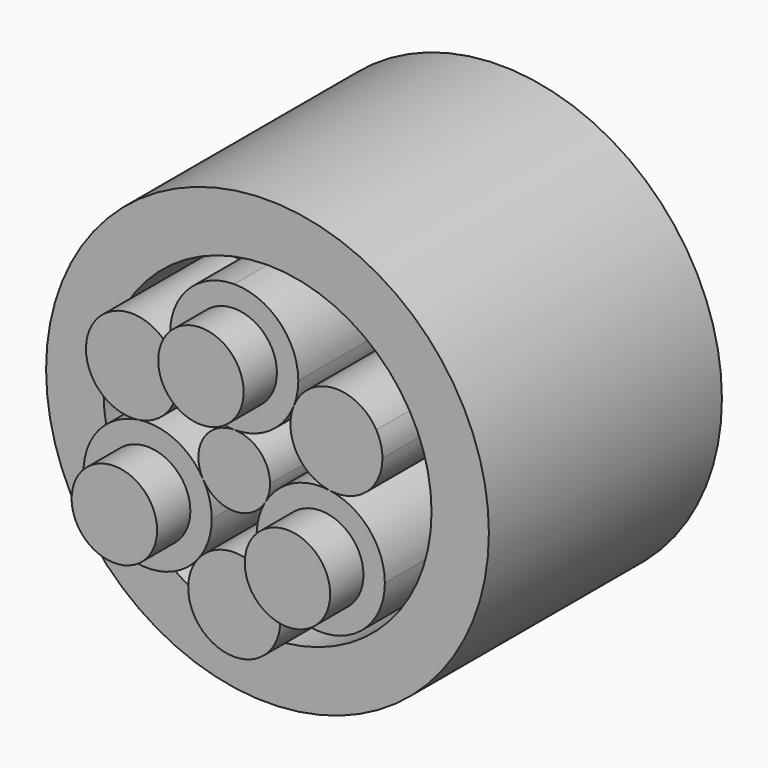
from build123d import *

# Parameters (mm, degrees)
F0_R           = 10.26686
F1_DEPTH       = 40
F2_DEPTH       = 30
F3_DEPTH       = 30
F4_DEPTH       = 40
F5_DEPTH       = 30
F6_DEPTH       = 40
F7_DEPTH       = 30
F8_DEPTH       = 30
F9_DEPTH       = 30
F10_DEPTH      = 30
F0_R_2         = 53.205664
F11_DEPTH      = 20
F11_DEPTH_BACK = 50


with BuildPart() as f1:
    # F0 (on Front) → F1 (new body)
    with BuildSketch(Plane.XZ):
        with Locations((0, 24.017028)):
            Circle(F0_R)
    extrude(amount=F1_DEPTH)

    # F0 (on Front) → F2 (join)
    with BuildSketch(Plane.XZ):
        with BuildLine():
            ThreePointArc((-14.303915, 18.292196), (-8.636353, 11.258146), (0, 8.610027))
            ThreePointArc((0, 8.610027), (8.636353, 11.258146), (14.303915, 18.292196))
            ThreePointArc((14.303915, 18.292196), (15.128716, 21.101959), (15.407001, 24.017028))
            ThreePointArc((15.407001, 24.017028), (10.894395, 34.911423), (0, 39.424029))
            ThreePointArc((0, 39.424029), (-12.758883, 32.653381), (-14.303915, 18.292196))
        make_face()
        with Locations((0, 24.017028)):
            Circle(F0_R, mode=Mode.SUBTRACT)
    extrude(amount=F2_DEPTH)


with BuildPart() as f3:
    # F0 (on Front) → F3 (new body)
    with BuildSketch(Plane.XZ):
        with BuildLine():
            ThreePointArc((-5.392356, -12.008514), (-5.917336, -8.020889), (-7.456503, -4.305013))
            ThreePointArc((-7.456503, -4.305013), (-14.068017, 1.850228), (-22.993464, 3.241456))
            ThreePointArc((-22.993464, 3.241456), (-34.658099, -5.277174), (-34.142211, -19.712014))
            ThreePointArc((-34.142211, -19.712014), (-21.899216, -27.376207), (-8.689549, -21.533652))
            ThreePointArc((-8.689549, -21.533652), (-6.23997, -17.048349), (-5.392356, -12.008514))
        make_face()
        with Locations((-20.799357, -12.008514)):
            Circle(F0_R, mode=Mode.SUBTRACT)
    extrude(amount=F3_DEPTH)

    # F0 (on Front) → F4 (join)
    with BuildSketch(Plane.XZ):
        with Locations((-20.799357, -12.008514)):
            Circle(F0_R)
    extrude(amount=F4_DEPTH)


with BuildPart() as f5:
    # F0 (on Front) → F5 (new body)
    with BuildSketch(Plane.XZ):
        with BuildLine():
            ThreePointArc((22.993463, 3.241456), (14.068016, 1.850228), (7.456502, -4.305013))
            ThreePointArc((7.456502, -4.305013), (5.431664, -13.108374), (8.689549, -21.533651))
            ThreePointArc((8.689549, -21.533651), (21.899216, -27.376207), (34.142211, -19.712015))
            ThreePointArc((34.142211, -19.712015), (35.681377, -15.996139), (36.206358, -12.008514))
            ThreePointArc((36.206358, -12.008514), (32.443675, -1.919632), (22.993463, 3.241456))
        make_face()
        with Locations((20.799357, -12.008514)):
            Circle(F0_R, mode=Mode.SUBTRACT)
    extrude(amount=F5_DEPTH)

    # F0 (on Front) → F6 (join)
    with BuildSketch(Plane.XZ):
        with Locations((20.799357, -12.008514)):
            Circle(F0_R)
    extrude(amount=F6_DEPTH)


with BuildPart() as f7:
    # F0 (on Front) → F7 (new body)
    with BuildSketch(Plane.XZ):
        with BuildLine():
            ThreePointArc((-13.512381, 14.184268), (-13.712068, 16.276014), (-14.303915, 18.292196))
            ThreePointArc((-14.303915, 18.292196), (-23.778655, 25.211555), (-34.142211, 19.712014))
            ThreePointArc((-34.142211, 19.712014), (-33.723175, 7.987142), (-22.993464, 3.241456))
            ThreePointArc((-22.993464, 3.241456), (-16.212342, 6.944861), (-13.512381, 14.184268))
        make_face()
    extrude(amount=F7_DEPTH)


with BuildPart() as f8:
    # F0 (on Front) → F8 (new body)
    with BuildSketch(Plane.XZ):
        with BuildLine():
            ThreePointArc((34.142211, 19.712015), (23.778655, 25.211555), (14.303915, 18.292196))
            ThreePointArc((14.303915, 18.292196), (14.993536, 8.656522), (22.993463, 3.241456))
            ThreePointArc((22.993463, 3.241456), (31.807281, 5.828737), (35.623366, 14.184268))
            ThreePointArc((35.623366, 14.184268), (35.246659, 17.04564), (34.142211, 19.712015))
        make_face()
    extrude(amount=F8_DEPTH)


with BuildPart() as f9:
    # F0 (on Front) → F9 (new body)
    with BuildSketch(Plane.XZ):
        with BuildLine():
            ThreePointArc((11.055493, -28.368537), (10.447276, -24.752138), (8.689549, -21.533651))
            ThreePointArc((8.689549, -21.533651), (0, -17.313044), (-8.689549, -21.533652))
            ThreePointArc((-8.689549, -21.533652), (-9.94452, -33.198697), (0, -39.424029))
            ThreePointArc((0, -39.424029), (7.817414, -36.18595), (11.055493, -28.368537))
        make_face()
    extrude(amount=F9_DEPTH)


with BuildPart() as f10:
    # F0 (on Front) → F10 (new body)
    with BuildSketch(Plane.XZ):
        with BuildLine():
            ThreePointArc((7.456502, -4.305013), (8.316648, -2.228439), (8.610027, 0))
            ThreePointArc((8.610027, 0), (6.088209, 6.088209), (0, 8.610027))
            ThreePointArc((0, 8.610027), (-7.456502, 4.305014), (-7.456503, -4.305013))
            ThreePointArc((-7.456503, -4.305013), (0, -8.610027), (7.456502, -4.305013))
        make_face()
    extrude(amount=F10_DEPTH)


with BuildPart() as f11:
    # F0 (on Front) → F11 (new body, two sides)
    with BuildSketch(Plane.XZ) as f11_sk:
        Circle(F0_R_2)
        with BuildLine():
            ThreePointArc((-34.142211, 19.712014), (-19.712015, 34.142211), (0, 39.424029))
            ThreePointArc((0, 39.424029), (19.712015, 34.142211), (34.142211, 19.712015))
            ThreePointArc((34.142211, 19.712015), (38.080688, 10.20369), (39.424029, 0))
            ThreePointArc((39.424029, 0), (38.080688, -10.20369), (34.142211, -19.712015))
            ThreePointArc((34.142211, -19.712015), (19.712015, -34.142211), (0, -39.424029))
            ThreePointArc((0, -39.424029), (-19.712015, -34.142211), (-34.142211, -19.712014))
            ThreePointArc((-34.142211, -19.712014), (-39.424029, 0), (-34.142211, 19.712014))
        make_face(mode=Mode.SUBTRACT)
    extrude(amount=F11_DEPTH)
    extrude(f11_sk.sketch, amount=-F11_DEPTH_BACK)


solid = Compound([f1.part, f3.part, f5.part, f7.part, f8.part, f9.part, f10.part, f11.part])
